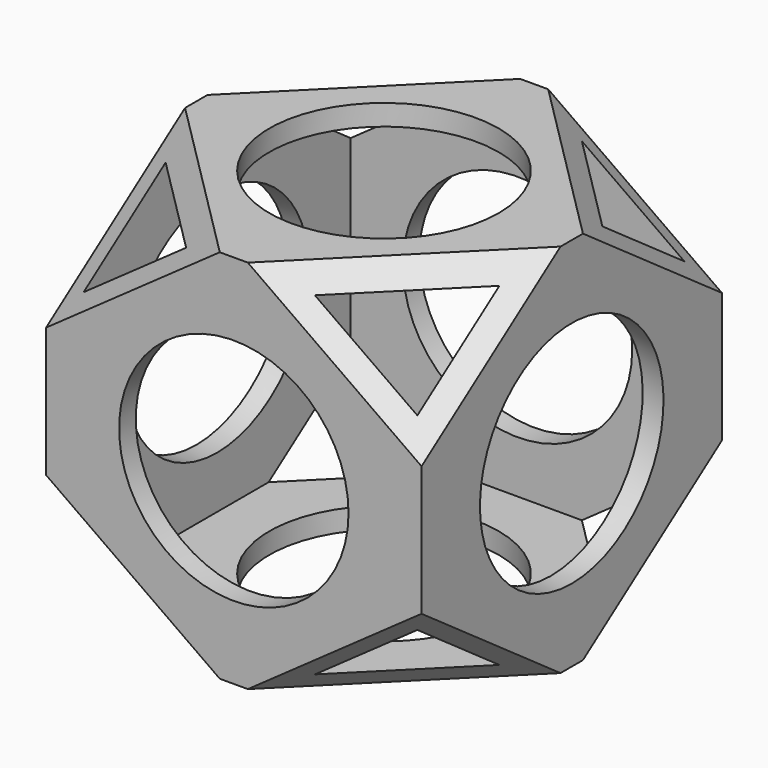
from build123d import *

# Parameters (mm, degrees)
PAD001_DEPTH            = 35
PAD_DEPTH               = 35
CYLINDER002_R           = 27.5
CYLINDER002_DEPTH       = 90
CYLINDER002_PITCH_ANGLE = 90
CYLINDER001_R           = 27.5
CYLINDER001_DEPTH       = 90
CYLINDER001_ROLL_ANGLE  = 90
CYLINDER_R              = 27.5
CYLINDER_DEPTH          = 90
BOX001_W                = 80
BOX001_H                = 80
BOX001_DEPTH            = 80
BOX_W                   = 90
BOX_H                   = 90
BOX_DEPTH               = 90


with BuildPart() as pad001:
    # Sketch001 → Pad001 (new body, symmetric)
    with BuildSketch(Plane(origin=(0, 0, 0), x_dir=(0.707107, -0.707107, 0), z_dir=(-0.707107, -0.707107, 0))):
        Polygon((-65, 14.195959), (-65, 50), (-29.195959, 50), align=None)
        Polygon((29.195959, 50), (65, 50), (65, 14.195959), align=None)
        Polygon((-65, -14.195959), (-65, -50), (-29.195959, -50), align=None)
        Polygon((29.195959, -50), (65, -50), (65, -14.195959), align=None)
    extrude(amount=PAD001_DEPTH, both=True)


with BuildPart() as pad:
    # Sketch → Pad (new body, symmetric)
    with BuildSketch(Plane(origin=(0, 0, 0), x_dir=(0.707107, 0.707107, 0), z_dir=(0.707107, -0.707107, 0))):
        Polygon((-65, 14.195959), (-65, 50), (-29.195959, 50), align=None)
        Polygon((29.195959, 50), (65, 50), (65, 14.195959), align=None)
        Polygon((-65, -14.195959), (-65, -50), (-29.195959, -50), align=None)
        Polygon((29.195959, -50), (65, -50), (65, -14.195959), align=None)
    extrude(amount=PAD_DEPTH, both=True)


with BuildPart() as cylinder002:
    # Cylinder002 → Cylinder002 (new body)
    with BuildSketch(Plane.XY):
        Circle(CYLINDER002_R)
    extrude(amount=CYLINDER002_DEPTH)


with BuildPart() as cylinder002_1:
    # Cylinder002 pitch: moved
    add(cylinder002.part.rotate(Axis((0, 0, 0), (0, 1, 0)), CYLINDER002_PITCH_ANGLE))


with BuildPart() as cylinder002_2:
    # Cylinder002 placement: moved
    add(cylinder002_1.part.moved(Location((-45, 0, 0))))


with BuildPart() as cylinder001:
    # Cylinder001 → Cylinder001 (new body)
    with BuildSketch(Plane.XY):
        Circle(CYLINDER001_R)
    extrude(amount=CYLINDER001_DEPTH)


with BuildPart() as cylinder001_1:
    # Cylinder001 roll: moved
    add(cylinder001.part.rotate(Axis((0, 0, 0), (1, 0, 0)), CYLINDER001_ROLL_ANGLE))


with BuildPart() as cylinder001_2:
    # Cylinder001 placement: moved
    add(cylinder001_1.part.moved(Location((0, 45, 0))))


with BuildPart() as cylinder:
    # Cylinder → Cylinder (new body)
    with BuildSketch(Plane.XY.offset(-45)):
        Circle(CYLINDER_R)
    extrude(amount=CYLINDER_DEPTH)


with BuildPart() as obj1:
    # Box001 → Box001 (new body)
    with BuildSketch(Plane(origin=(-40, -40, -40), x_dir=(1, 0, 0), z_dir=(0, 0, 1))):
        with Locations((40, 40)):
            Rectangle(BOX001_W, BOX001_H)
    extrude(amount=BOX001_DEPTH)


with BuildPart() as cut005:
    # Box → Box (new body)
    with BuildSketch(Plane(origin=(-45, -45, -45), x_dir=(1, 0, 0), z_dir=(0, 0, 1))):
        with Locations((45, 45)):
            Rectangle(BOX_W, BOX_H)
    extrude(amount=BOX_DEPTH)

    # Cut: cut obj1
    add(obj1.part, mode=Mode.SUBTRACT)

    # Cut001: cut Cylinder
    add(cylinder.part, mode=Mode.SUBTRACT)

    # Cut002: cut Cylinder001
    add(cylinder001_2.part, mode=Mode.SUBTRACT)

    # Cut003: cut Cylinder002
    add(cylinder002_2.part, mode=Mode.SUBTRACT)

    # Cut004: cut Pad
    add(pad.part, mode=Mode.SUBTRACT)

    # Cut005: cut Pad001
    add(pad001.part, mode=Mode.SUBTRACT)


solid = cut005.part
